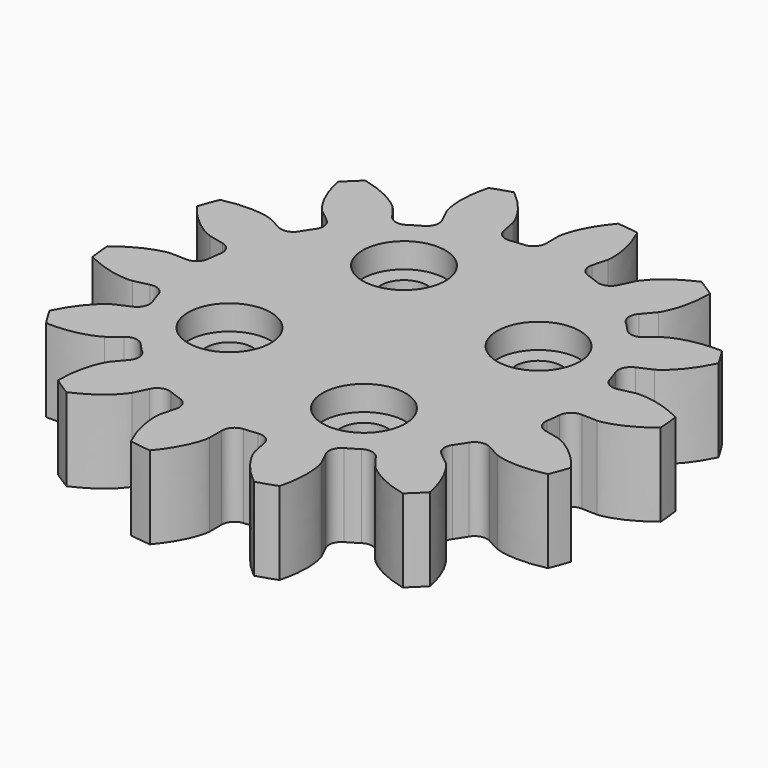
from build123d import *

# Parameters (mm, degrees)
PAD016_DEPTH            = 5
SKETCH016_R             = 1.4
POCKET005_DEPTH         = 5.001
SKETCH017_R             = 2.5
POCKET006_DEPTH         = 2
SKETCH018_R             = 2.5
POCKET007_DEPTH         = 1.5
BODY007_ROLL_ANGLE      = 180
BODY007_PLACEMENT_ANGLE = 31.284493


with BuildPart() as part:
    # InvoluteGear002 → Pad016 (new body)
    with BuildSketch(Plane.XY):
        with BuildLine():
            Line((12.1611, -1.554104), (13.081146, -1.6702))
            add(Edge.make_bspline(
                [(13.081146, -1.6702), (13.222866, -1.675254), (13.790574, -1.675498), (14.789934, -1.418437), (15.986899, -0.643298)],
                knots=[0, 0, 0, 0, 0, 1, 1, 1, 1, 1], degree=4))
            ThreePointArc((15.986899, -0.643298), (15.999918, 0.001253), (15.986961, 0.645805))
            add(Edge.make_bspline(
                [(15.986961, 0.645805), (14.789934, 1.418437), (13.790574, 1.675498), (13.222866, 1.675254), (13.081146, 1.6702)],
                knots=[0, 0, 0, 0, 0, 1, 1, 1, 1, 1], degree=4))
            Line((13.081146, 1.6702), (12.1611, 1.554104))
            ThreePointArc((12.1611, 1.554104), (11.605364, 1.68218), (11.295182, 2.160754))
            ThreePointArc((11.295182, 2.160754), (11.211671, 2.558991), (11.114124, 2.954024))
            ThreePointArc((11.114124, 2.954024), (11.185943, 3.519787), (11.631073, 3.876304))
            Line((11.631073, 3.876304), (12.510378, 4.170898))
            add(Edge.make_bspline(
                [(12.510378, 4.170898), (12.640256, 4.227835), (13.15185, 4.473934), (13.940707, 5.139144), (14.682815, 6.356864)],
                knots=[0, 0, 0, 0, 0, 1, 1, 1, 1, 1], degree=4))
            ThreePointArc((14.682815, 6.356864), (14.414885, 6.943233), (14.12355, 7.518333))
            add(Edge.make_bspline(
                [(14.12355, 7.518333), (12.709833, 7.695079), (11.697907, 7.493078), (11.186525, 7.246538), (11.061032, 7.180495)],
                knots=[0, 0, 0, 0, 0, 1, 1, 1, 1, 1], degree=4))
            Line((11.061032, 7.180495), (10.282472, 6.676703))
            ThreePointArc((10.282472, 6.676703), (9.726201, 6.550971), (9.239092, 6.847568))
            ThreePointArc((9.239092, 6.847568), (8.991062, 7.170133), (8.731776, 7.483721))
            ThreePointArc((8.731776, 7.483721), (8.551008, 8.024617), (8.79737, 8.538963))
            Line((8.79737, 8.538963), (9.461776, 9.185899))
            add(Edge.make_bspline(
                [(9.461776, 9.185899), (9.554089, 9.293549), (9.90824, 9.737249), (10.330351, 10.678855), (10.47062, 12.097971)],
                knots=[0, 0, 0, 0, 0, 1, 1, 1, 1, 1], degree=4))
            ThreePointArc((10.47062, 12.097971), (9.974806, 12.510021), (9.462796, 12.901763))
            add(Edge.make_bspline(
                [(9.462796, 12.901763), (8.112394, 12.447617), (7.288325, 11.826561), (6.934555, 11.382557), (6.850146, 11.268604)],
                knots=[0, 0, 0, 0, 0, 1, 1, 1, 1, 1], degree=4))
            Line((6.850146, 11.268604), (6.367275, 10.476899))
            ThreePointArc((6.367275, 10.476899), (5.920645, 10.122261), (5.353086, 10.178137))
            ThreePointArc((5.353086, 10.178137), (4.989663, 10.361142), (4.619994, 10.531176))
            ThreePointArc((4.619994, 10.531176), (4.222441, 10.940073), (4.221239, 11.510375))
            Line((4.221239, 11.510375), (4.539154, 12.38152))
            add(Edge.make_bspline(
                [(4.539154, 12.38152), (4.575617, 12.518562), (4.702182, 13.071982), (4.673944, 14.103487), (4.184589, 15.442927)],
                knots=[0, 0, 0, 0, 0, 1, 1, 1, 1, 1], degree=4))
            ThreePointArc((4.184589, 15.442927), (3.559095, 15.599046), (2.92782, 15.72984))
            add(Edge.make_bspline(
                [(2.92782, 15.72984), (1.908196, 14.734751), (1.435201, 13.817649), (1.309112, 13.26412), (1.282504, 13.124829)],
                knots=[0, 0, 0, 0, 0, 1, 1, 1, 1, 1], degree=4))
            Line((1.282504, 13.124829), (1.19096, 12.202017))
            ThreePointArc((1.19096, 12.202017), (0.942432, 11.688714), (0.406835, 11.492801))
            ThreePointArc((0.406835, 11.492801), (0, 11.5), (-0.406835, 11.492801))
            ThreePointArc((-0.406835, 11.492801), (-0.942432, 11.688714), (-1.19096, 12.202017))
            Line((-1.19096, 12.202017), (-1.282504, 13.124829))
            add(Edge.make_bspline(
                [(-1.282504, 13.124829), (-1.309112, 13.26412), (-1.435201, 13.817649), (-1.908196, 14.734751), (-2.93025, 15.729222)],
                knots=[0, 0, 0, 0, 0, 1, 1, 1, 1, 1], degree=4))
            ThreePointArc((-2.93025, 15.729222), (-3.561538, 15.598488), (-4.187047, 15.44243))
            add(Edge.make_bspline(
                [(-4.187047, 15.44243), (-4.673944, 14.103487), (-4.702182, 13.071982), (-4.575617, 12.518562), (-4.539154, 12.38152)],
                knots=[0, 0, 0, 0, 0, 1, 1, 1, 1, 1], degree=4))
            Line((-4.539154, 12.38152), (-4.221239, 11.510375))
            ThreePointArc((-4.221239, 11.510375), (-4.222441, 10.940073), (-4.619994, 10.531176))
            ThreePointArc((-4.619994, 10.531176), (-4.989663, 10.361142), (-5.353086, 10.178137))
            ThreePointArc((-5.353086, 10.178137), (-5.920645, 10.122261), (-6.367275, 10.476899))
            Line((-6.367275, 10.476899), (-6.850146, 11.268604))
            add(Edge.make_bspline(
                [(-6.850146, 11.268604), (-6.934555, 11.382557), (-7.288325, 11.826561), (-8.112394, 12.447617), (-9.464718, 12.900151)],
                knots=[0, 0, 0, 0, 0, 1, 1, 1, 1, 1], degree=4))
            ThreePointArc((-9.464718, 12.900151), (-9.976765, 12.508459), (-10.472618, 12.096457))
            add(Edge.make_bspline(
                [(-10.472618, 12.096457), (-10.330351, 10.678855), (-9.90824, 9.737249), (-9.554089, 9.293549), (-9.461776, 9.185899)],
                knots=[0, 0, 0, 0, 0, 1, 1, 1, 1, 1], degree=4))
            Line((-9.461776, 9.185899), (-8.79737, 8.538963))
            ThreePointArc((-8.79737, 8.538963), (-8.551008, 8.024617), (-8.731776, 7.483721))
            ThreePointArc((-8.731776, 7.483721), (-8.991062, 7.170133), (-9.239092, 6.847568))
            ThreePointArc((-9.239092, 6.847568), (-9.726201, 6.550971), (-10.282472, 6.676703))
            Line((-10.282472, 6.676703), (-11.061032, 7.180495))
            add(Edge.make_bspline(
                [(-11.061032, 7.180495), (-11.186525, 7.246538), (-11.697907, 7.493078), (-12.709833, 7.695079), (-14.124582, 7.516048)],
                knots=[0, 0, 0, 0, 0, 1, 1, 1, 1, 1], degree=4))
            ThreePointArc((-14.124582, 7.516048), (-14.415972, 6.940976), (-14.683959, 6.354632))
            add(Edge.make_bspline(
                [(-14.683959, 6.354632), (-13.940707, 5.139144), (-13.15185, 4.473934), (-12.640256, 4.227835), (-12.510378, 4.170898)],
                knots=[0, 0, 0, 0, 0, 1, 1, 1, 1, 1], degree=4))
            Line((-12.510378, 4.170898), (-11.631073, 3.876304))
            ThreePointArc((-11.631073, 3.876304), (-11.185943, 3.519787), (-11.114124, 2.954024))
            ThreePointArc((-11.114124, 2.954024), (-11.211671, 2.558991), (-11.295182, 2.160754))
            ThreePointArc((-11.295182, 2.160754), (-11.605364, 1.68218), (-12.1611, 1.554104))
            Line((-12.1611, 1.554104), (-13.081146, 1.6702))
            add(Edge.make_bspline(
                [(-13.081146, 1.6702), (-13.222866, 1.675254), (-13.790574, 1.675498), (-14.789934, 1.418437), (-15.986899, 0.643298)],
                knots=[0, 0, 0, 0, 0, 1, 1, 1, 1, 1], degree=4))
            ThreePointArc((-15.986899, 0.643298), (-15.999918, -0.001253), (-15.986961, -0.645805))
            add(Edge.make_bspline(
                [(-15.986961, -0.645805), (-14.789934, -1.418437), (-13.790574, -1.675498), (-13.222866, -1.675254), (-13.081146, -1.6702)],
                knots=[0, 0, 0, 0, 0, 1, 1, 1, 1, 1], degree=4))
            Line((-13.081146, -1.6702), (-12.1611, -1.554104))
            ThreePointArc((-12.1611, -1.554104), (-11.605364, -1.68218), (-11.295182, -2.160754))
            ThreePointArc((-11.295182, -2.160754), (-11.211671, -2.558991), (-11.114124, -2.954024))
            ThreePointArc((-11.114124, -2.954024), (-11.185943, -3.519787), (-11.631073, -3.876304))
            Line((-11.631073, -3.876304), (-12.510378, -4.170898))
            add(Edge.make_bspline(
                [(-12.510378, -4.170898), (-12.640256, -4.227835), (-13.15185, -4.473934), (-13.940707, -5.139144), (-14.682815, -6.356864)],
                knots=[0, 0, 0, 0, 0, 1, 1, 1, 1, 1], degree=4))
            ThreePointArc((-14.682815, -6.356864), (-14.414885, -6.943233), (-14.12355, -7.518333))
            add(Edge.make_bspline(
                [(-14.12355, -7.518333), (-12.709833, -7.695079), (-11.697907, -7.493078), (-11.186525, -7.246538), (-11.061032, -7.180495)],
                knots=[0, 0, 0, 0, 0, 1, 1, 1, 1, 1], degree=4))
            Line((-11.061032, -7.180495), (-10.282472, -6.676703))
            ThreePointArc((-10.282472, -6.676703), (-9.726201, -6.550971), (-9.239092, -6.847568))
            ThreePointArc((-9.239092, -6.847568), (-8.991062, -7.170133), (-8.731776, -7.483721))
            ThreePointArc((-8.731776, -7.483721), (-8.551008, -8.024617), (-8.79737, -8.538963))
            Line((-8.79737, -8.538963), (-9.461776, -9.185899))
            add(Edge.make_bspline(
                [(-9.461776, -9.185899), (-9.554089, -9.293549), (-9.90824, -9.737249), (-10.330351, -10.678855), (-10.47062, -12.097971)],
                knots=[0, 0, 0, 0, 0, 1, 1, 1, 1, 1], degree=4))
            ThreePointArc((-10.47062, -12.097971), (-9.974806, -12.510021), (-9.462796, -12.901763))
            add(Edge.make_bspline(
                [(-9.462796, -12.901763), (-8.112394, -12.447617), (-7.288325, -11.826561), (-6.934555, -11.382557), (-6.850146, -11.268604)],
                knots=[0, 0, 0, 0, 0, 1, 1, 1, 1, 1], degree=4))
            Line((-6.850146, -11.268604), (-6.367275, -10.476899))
            ThreePointArc((-6.367275, -10.476899), (-5.920645, -10.122261), (-5.353086, -10.178137))
            ThreePointArc((-5.353086, -10.178137), (-4.989663, -10.361142), (-4.619994, -10.531176))
            ThreePointArc((-4.619994, -10.531176), (-4.222441, -10.940073), (-4.221239, -11.510375))
            Line((-4.221239, -11.510375), (-4.539154, -12.38152))
            add(Edge.make_bspline(
                [(-4.539154, -12.38152), (-4.575617, -12.518562), (-4.702182, -13.071982), (-4.673944, -14.103487), (-4.184589, -15.442927)],
                knots=[0, 0, 0, 0, 0, 1, 1, 1, 1, 1], degree=4))
            ThreePointArc((-4.184589, -15.442927), (-3.559095, -15.599046), (-2.92782, -15.72984))
            add(Edge.make_bspline(
                [(-2.92782, -15.72984), (-1.908196, -14.734751), (-1.435201, -13.817649), (-1.309112, -13.26412), (-1.282504, -13.124829)],
                knots=[0, 0, 0, 0, 0, 1, 1, 1, 1, 1], degree=4))
            Line((-1.282504, -13.124829), (-1.19096, -12.202017))
            ThreePointArc((-1.19096, -12.202017), (-0.942432, -11.688714), (-0.406835, -11.492801))
            ThreePointArc((-0.406835, -11.492801), (0, -11.5), (0.406835, -11.492801))
            ThreePointArc((0.406835, -11.492801), (0.942432, -11.688714), (1.19096, -12.202017))
            Line((1.19096, -12.202017), (1.282504, -13.124829))
            add(Edge.make_bspline(
                [(1.282504, -13.124829), (1.309112, -13.26412), (1.435201, -13.817649), (1.908196, -14.734751), (2.93025, -15.729222)],
                knots=[0, 0, 0, 0, 0, 1, 1, 1, 1, 1], degree=4))
            ThreePointArc((2.93025, -15.729222), (3.561538, -15.598488), (4.187047, -15.44243))
            add(Edge.make_bspline(
                [(4.187047, -15.44243), (4.673944, -14.103487), (4.702182, -13.071982), (4.575617, -12.518562), (4.539154, -12.38152)],
                knots=[0, 0, 0, 0, 0, 1, 1, 1, 1, 1], degree=4))
            Line((4.539154, -12.38152), (4.221239, -11.510375))
            ThreePointArc((4.221239, -11.510375), (4.222441, -10.940073), (4.619994, -10.531176))
            ThreePointArc((4.619994, -10.531176), (4.989663, -10.361142), (5.353086, -10.178137))
            ThreePointArc((5.353086, -10.178137), (5.920645, -10.122261), (6.367275, -10.476899))
            Line((6.367275, -10.476899), (6.850146, -11.268604))
            add(Edge.make_bspline(
                [(6.850146, -11.268604), (6.934555, -11.382557), (7.288325, -11.826561), (8.112394, -12.447617), (9.464718, -12.900151)],
                knots=[0, 0, 0, 0, 0, 1, 1, 1, 1, 1], degree=4))
            ThreePointArc((9.464718, -12.900151), (9.976765, -12.508459), (10.472618, -12.096457))
            add(Edge.make_bspline(
                [(10.472618, -12.096457), (10.330351, -10.678855), (9.90824, -9.737249), (9.554089, -9.293549), (9.461776, -9.185899)],
                knots=[0, 0, 0, 0, 0, 1, 1, 1, 1, 1], degree=4))
            Line((9.461776, -9.185899), (8.79737, -8.538963))
            ThreePointArc((8.79737, -8.538963), (8.551008, -8.024617), (8.731776, -7.483721))
            ThreePointArc((8.731776, -7.483721), (8.991062, -7.170133), (9.239092, -6.847568))
            ThreePointArc((9.239092, -6.847568), (9.726201, -6.550971), (10.282472, -6.676703))
            Line((10.282472, -6.676703), (11.061032, -7.180495))
            add(Edge.make_bspline(
                [(11.061032, -7.180495), (11.186525, -7.246538), (11.697907, -7.493078), (12.709833, -7.695079), (14.124582, -7.516048)],
                knots=[0, 0, 0, 0, 0, 1, 1, 1, 1, 1], degree=4))
            ThreePointArc((14.124582, -7.516048), (14.415972, -6.940976), (14.683959, -6.354632))
            add(Edge.make_bspline(
                [(14.683959, -6.354632), (13.940707, -5.139144), (13.15185, -4.473934), (12.640256, -4.227835), (12.510378, -4.170898)],
                knots=[0, 0, 0, 0, 0, 1, 1, 1, 1, 1], degree=4))
            Line((12.510378, -4.170898), (11.631073, -3.876304))
            ThreePointArc((11.631073, -3.876304), (11.185943, -3.519787), (11.114124, -2.954024))
            ThreePointArc((11.114124, -2.954024), (11.211671, -2.558991), (11.295182, -2.160754))
            ThreePointArc((11.295182, -2.160754), (11.605364, -1.68218), (12.1611, -1.554104))
        make_face()
    extrude(amount=PAD016_DEPTH)

    # Sketch016 (on Face114 of Pad016) → Pocket005 (cut, through all)
    with BuildSketch(Plane.XY.offset(5)):
        with Locations((0, 7.35)):
            Circle(SKETCH016_R)
        with Locations((-7.35, 0)):
            Circle(SKETCH016_R)
        with Locations((0, -7.35)):
            Circle(SKETCH016_R)
        with Locations((7.35, 0)):
            Circle(SKETCH016_R)
    extrude(amount=-POCKET005_DEPTH, mode=Mode.SUBTRACT)

    # Sketch017 (on Face5 of Pocket005) → Pocket006 (cut)
    with BuildSketch(Plane.XY.offset(5)):
        Circle(SKETCH017_R)
    extrude(amount=-POCKET006_DEPTH, mode=Mode.SUBTRACT)

    # Sketch018 (on Face4 of Pocket006) → Pocket007 (cut)
    with BuildSketch(Plane(origin=(0, 0, 0), x_dir=(1, 0, 0), z_dir=(0, 0, -1))):
        with Locations((0, 7.35)):
            Circle(SKETCH018_R)
        with Locations((-7.35, 0)):
            Circle(SKETCH018_R)
        with Locations((0, -7.35)):
            Circle(SKETCH018_R)
        with Locations((7.35, 0)):
            Circle(SKETCH018_R)
    extrude(amount=-POCKET007_DEPTH, mode=Mode.SUBTRACT)


with BuildPart() as part_1:
    # Body007 roll: moved
    add(part.part.rotate(Axis((0, 0, 0), (1, 0, 0)), BODY007_ROLL_ANGLE))


with BuildPart() as part_2:
    # Body007 placement: moved
    add(part_1.part.moved(Location((41, -30, 39))).rotate(Axis((41, -30, 39), (0, 0, 1)), BODY007_PLACEMENT_ANGLE))


solid = part_2.part
